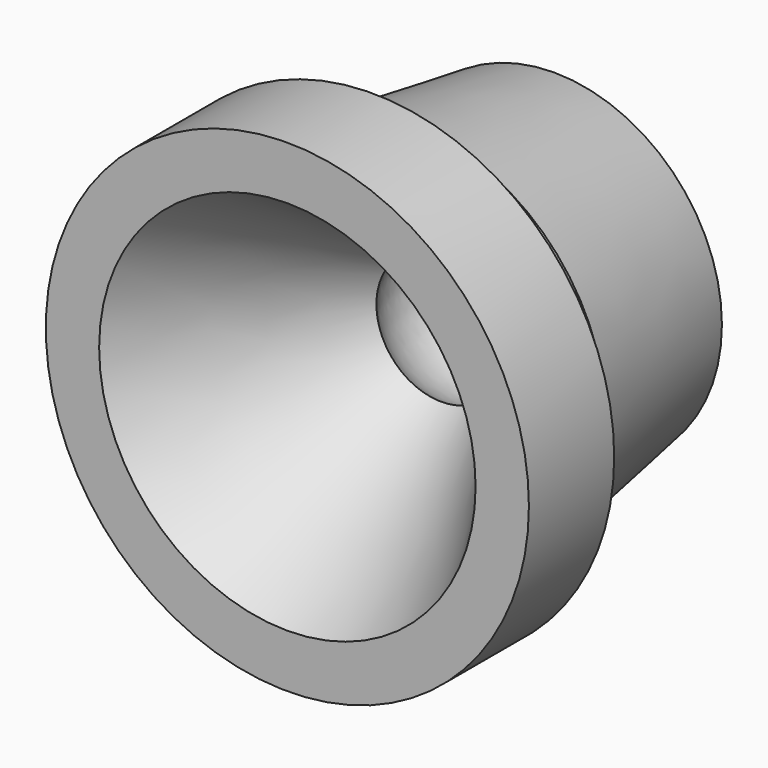
from build123d import *


with BuildPart() as f1:
    # F0 (on Top) → F1 (revolve)
    with BuildSketch(Plane.XY):
        with BuildLine():
            Line((-8.1, 12.624975), (0, 0))
            Line((0, 0), (3.5, 0))
            Line((3.5, 0), (3.5, 7))
            Line((3.5, 7), (-1.81, 7))
            Line((-1.81, 7), (-1.81, 10.05))
            Line((-1.81, 10.05), (0.49, 10.05))
            Line((0.49, 10.05), (-1.356164, 21.907136))
            Line((-1.356164, 21.907136), (-12.356164, 21.907136))
            Line((-12.356164, 21.907136), (-12.356164, 21.31))
            ThreePointArc((-12.356164, 21.31), (-7.520242, 18.294486), (-8.1, 12.624975))
        make_face()
    revolve(axis=Axis((-12.356164, 10.953568, 0), (0, -1, 0)))


solid = f1.part
